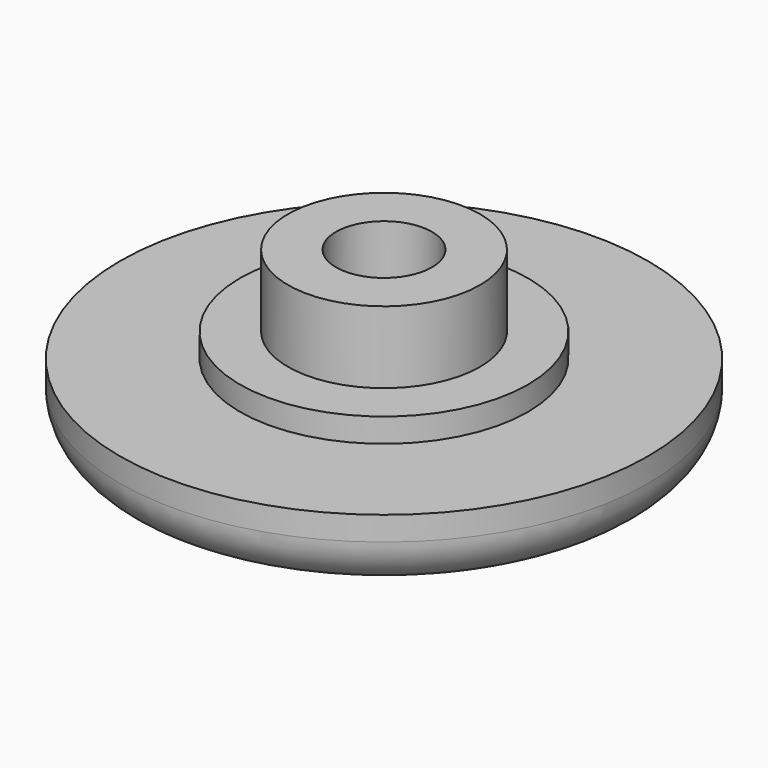
from build123d import *

# Parameters (mm, degrees)
F0_R     = 4
F0_R_2   = 2
F1_DEPTH = 7
F0_R_3   = 6
F2_DEPTH = 4
F0_R_4   = 11
F3_DEPTH = 3
F4_DEPTH = 4
F5_R     = 2
F6_DEPTH = 0.5


with BuildPart() as f1:
    # F0 (on Top) → F1 (new body)
    with BuildSketch(Plane.XY):
        Circle(F0_R)
        Circle(F0_R_2, mode=Mode.SUBTRACT)
    extrude(amount=F1_DEPTH)

    # F0 (on Top) → F2 (join)
    with BuildSketch(Plane.XY):
        Circle(F0_R_3)
        Circle(F0_R, mode=Mode.SUBTRACT)
    extrude(amount=F2_DEPTH)

    # F0 (on Top) → F3 (join)
    with BuildSketch(Plane.XY):
        Circle(F0_R_4)
        Circle(F0_R_3, mode=Mode.SUBTRACT)
    extrude(amount=F3_DEPTH)

    # F0 (on Top) → F4 (join)
    with BuildSketch(Plane.XY):
        Circle(F0_R_2)
    extrude(amount=F4_DEPTH)

    # F5
    f5_edges = [f1.edges().sort_by_distance(p)[0] for p in [
        (-11, 0, 0),
    ]]
    fillet(f5_edges, radius=F5_R)

    # F0 (on Top) → F6 (cut)
    with BuildSketch(Plane.XY):
        Circle(F0_R_3)
        Circle(F0_R, mode=Mode.SUBTRACT)
        Circle(F0_R_2)
    extrude(amount=F6_DEPTH, mode=Mode.SUBTRACT)


solid = f1.part
